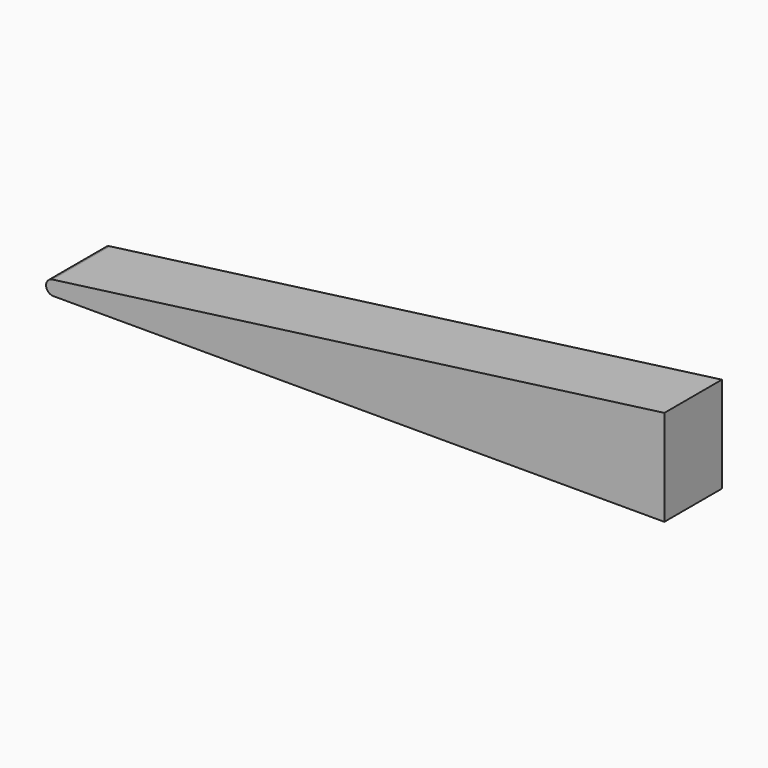
from build123d import *

# Parameters (mm, degrees)
F0_W     = 30
F0_H     = 3
F1_DEPTH = 4
F3_DEPTH = 25
F4_R     = 0.3


with BuildPart() as f1:
    # F0 (on Top) → F1 (new body)
    with BuildSketch(Plane.XY):
        with Locations((15, -1.5)):
            Rectangle(F0_W, F0_H)
    extrude(amount=F1_DEPTH)

    # F2 (on face) → F3 (cut)
    with BuildSketch(Plane.XZ.offset(3)):
        Polygon((0, 4), (0, 0), (30, 4), align=None)
    extrude(amount=-F3_DEPTH, mode=Mode.SUBTRACT)

    # F4
    f4_edges = [f1.edges().sort_by_distance(p)[0] for p in [
        (0, -1.5, 0),
    ]]
    fillet(f4_edges, radius=F4_R)


solid = f1.part
